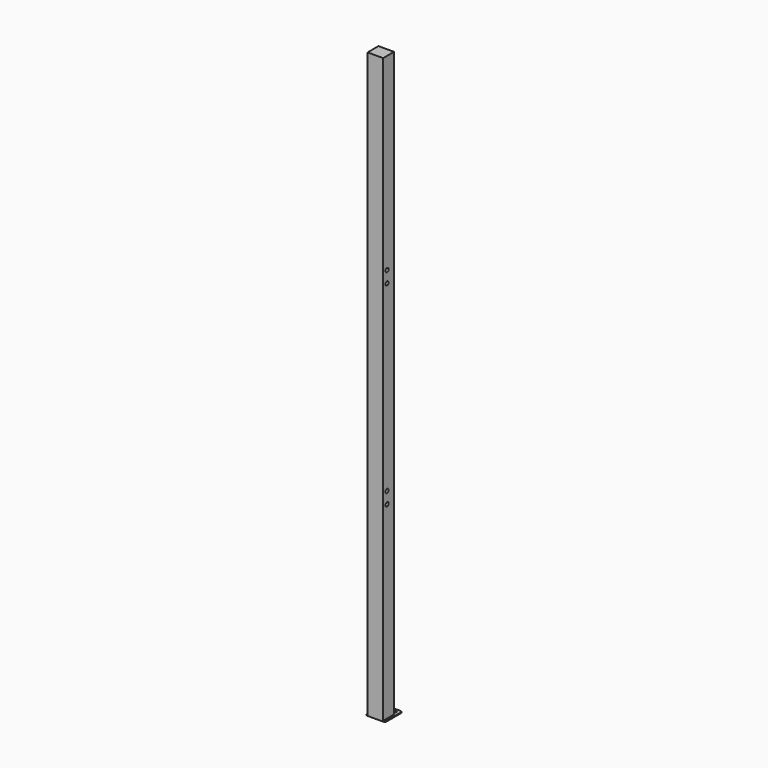
from build123d import *

# Parameters (mm, degrees)
SKETCH_R        = 6
PAD_DEPTH       = 4
SKETCH001_W     = 80
SKETCH001_H     = 70
PAD001_DEPTH    = 3000
SKETCH002_R     = 10
POCKET_DEPTH    = 80
SKETCH004_R     = 5
POCKET001_DEPTH = 30


with BuildPart() as part:
    # Sketch → Pad (new body)
    with BuildSketch(Plane.XY):
        with BuildLine():
            Line((10, 0), (90, 0))
            ThreePointArc((100, -10), (97.071068, -2.928932), (90, 0))
            Line((100, -10), (100, -101))
            ThreePointArc((90, -111), (97.071068, -108.071068), (100, -101))
            Line((90, -111), (10, -111))
            ThreePointArc((0, -101), (2.928932, -108.071068), (10, -111))
            Line((0, -101), (0, -10))
            ThreePointArc((10, 0), (2.928932, -2.928932), (0, -10))
        make_face()
        with Locations((20, -20)):
            Circle(SKETCH_R, mode=Mode.SUBTRACT)
        with Locations((50, -20)):
            Circle(SKETCH_R, mode=Mode.SUBTRACT)
        with Locations((80, -20)):
            Circle(SKETCH_R, mode=Mode.SUBTRACT)
    extrude(amount=PAD_DEPTH)

    # Sketch001 (on Face13 of Pad) → Pad001 (join)
    with BuildSketch(Plane.XY.offset(4)):
        with Locations((50, -76)):
            Rectangle(SKETCH001_W, SKETCH001_H)
    extrude(amount=PAD001_DEPTH)

    # Sketch002 (on Face14 of Pad001) → Pocket (cut)
    with BuildSketch(Plane.YZ.offset(90)):
        with Locations((-86, 1034)):
            Circle(SKETCH002_R)
        with Locations((-86, 974)):
            Circle(SKETCH002_R)
        with Locations((-86, 2034)):
            Circle(SKETCH002_R)
        with Locations((-86, 1974)):
            Circle(SKETCH002_R)
    extrude(amount=-POCKET_DEPTH, mode=Mode.SUBTRACT)

    # Sketch004 (on Face15 of Pocket) → Pocket001 (cut)
    with BuildSketch(Plane(origin=(0, -41, 0), x_dir=(-1, 0, 0), z_dir=(0, 1, 0))):
        with Locations((-50, 214)):
            Circle(SKETCH004_R)
        with Locations((-50, 634)):
            Circle(SKETCH004_R)
        with Locations((-50, 1054)):
            Circle(SKETCH004_R)
        with Locations((-50, 1474)):
            Circle(SKETCH004_R)
        with Locations((-50, 1894)):
            Circle(SKETCH004_R)
        with Locations((-50, 2314)):
            Circle(SKETCH004_R)
        with Locations((-50, 2734)):
            Circle(SKETCH004_R)
    extrude(amount=-POCKET001_DEPTH, mode=Mode.SUBTRACT)


solid = part.part
